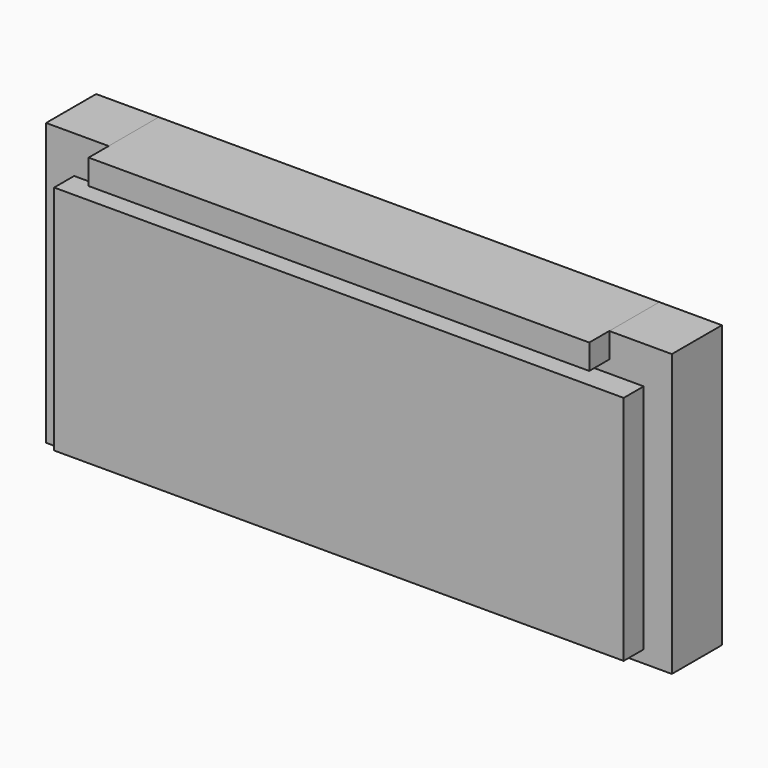
from build123d import *

# Parameters (mm, degrees)
F0_W     = 182.018503
F0_H     = 74
F0_W_2   = 160
F0_H_2   = 8
F1_DEPTH = 28
F2_DEPTH = 20


with BuildPart() as f1:
    # F0 (on Front) → F1 (new body)
    with BuildSketch(Plane.XZ):
        with Locations((1.136854, -41)):
            Rectangle(F0_W, F0_H)
        with Locations((1.146492, 4)):
            Rectangle(F0_W_2, F0_H_2)
    extrude(amount=F1_DEPTH)


with BuildPart() as f2:
    # F0 (on Front) → F2 (new body)
    with BuildSketch(Plane.XZ):
        Polygon((-78.853508, 8), (-98.853508, 8), (-98.853508, -82), (101.146492, -82), (101.146492, 8), (81.146492, 8), (81.146492, 0), (-78.853508, 0), align=None)
        with Locations((1.136854, -41)):
            Rectangle(F0_W, F0_H, mode=Mode.SUBTRACT)
    extrude(amount=F2_DEPTH)


solid = Compound([f1.part, f2.part])
